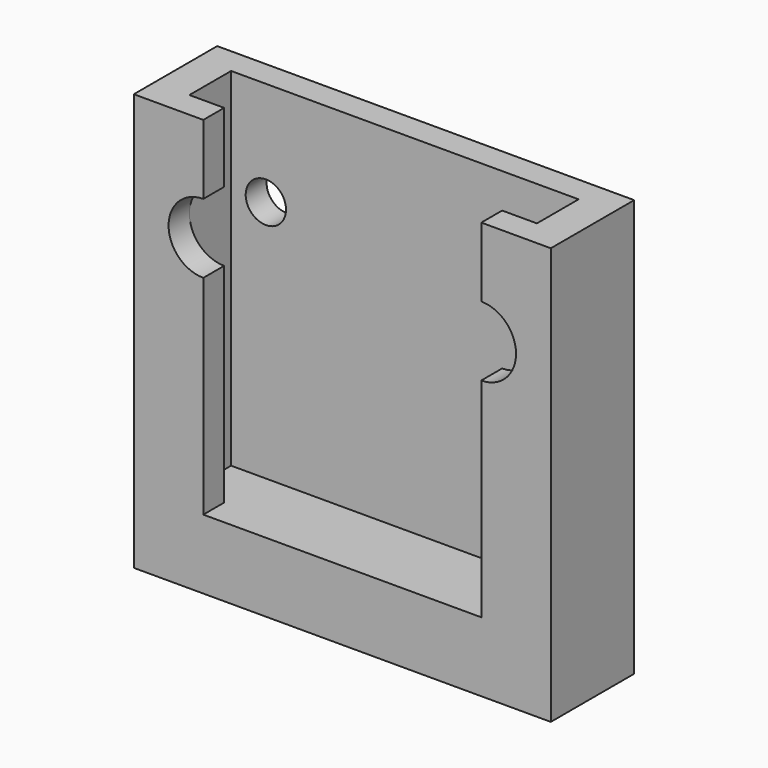
from build123d import *

# Parameters (mm, degrees)
F1_DEPTH = 19.05
F2_W     = 6.35
F2_H     = 4.7625
F2_W_2   = 50.8
F3_DEPTH = 63.5
F5_DEPTH = 10.16
F8_DEPTH = 12.7


with BuildPart() as f1:
    # F0 (on Front) → F1 (new body)
    with BuildSketch(Plane.XZ):
        Polygon((0, -38.1), (0, 0), (0, 38.1), (-38.1, 38.1), (-38.1, 0), (-38.1, -38.1), align=None)
        Polygon((0, 38.1), (0, 0), (0, -38.1), (38.1, -38.1), (38.1, 0), (38.1, 38.1), align=None)
    extrude(amount=F1_DEPTH)

    # F2 (on face) → F3 (cut)
    with BuildSketch(Plane.XY.offset(38.1)):
        Polygon((-25.4, -14.2875), (25.4, -14.2875), (25.4, -9.525), (25.4, -4.7625), (-25.4, -4.7625), (-25.4, -9.525), align=None)
        with Locations((28.575, -11.90625)):
            Rectangle(F2_W, F2_H)
        with Locations((28.575, -7.14375)):
            Rectangle(F2_W, F2_H)
        with Locations((-28.575, -11.90625)):
            Rectangle(F2_W, F2_H)
        with Locations((-28.575, -7.14375)):
            Rectangle(F2_W, F2_H)
        with Locations((0, -16.66875)):
            Rectangle(F2_W_2, F2_H)
    extrude(amount=-F3_DEPTH, mode=Mode.SUBTRACT)

    # F4 (on face) → F5 (cut)
    with BuildSketch(Plane(origin=(0, 0, 0), x_dir=(-1, 0, 0), z_dir=(0, 1, 0))):
        with BuildLine():
            ThreePointArc((-29.083, 19.05), (-25.4, 15.367), (-21.717, 19.05))
            Line((-21.717, 19.05), (-25.4, 19.05))
            Line((-25.4, 19.05), (-29.083, 19.05))
        make_face()
        with BuildLine():
            Line((-25.4, 19.05), (-21.717, 19.05))
            ThreePointArc((-21.717, 19.05), (-25.4, 22.733), (-29.083, 19.05))
            Line((-29.083, 19.05), (-25.4, 19.05))
        make_face()
        with BuildLine():
            ThreePointArc((29.083, 19.05), (25.4, 22.733), (21.717, 19.05))
            Line((21.717, 19.05), (25.4, 19.05))
            Line((25.4, 19.05), (29.083, 19.05))
        make_face()
        with BuildLine():
            Line((25.4, 19.05), (21.717, 19.05))
            ThreePointArc((21.717, 19.05), (25.4, 15.367), (29.083, 19.05))
            Line((29.083, 19.05), (25.4, 19.05))
        make_face()
    extrude(amount=-F5_DEPTH, mode=Mode.SUBTRACT)

    # F7 (on face) → F8 (cut)
    with BuildSketch(Plane.XZ.offset(19.05)):
        with BuildLine():
            ThreePointArc((-25.4, 25.3892062068), (-29.8901280605, 14.5490781463), (-19.05, 19.0392062068))
            ThreePointArc((-19.05, 19.0392062068), (-20.9098719395, 23.5293342673), (-25.4, 25.3892062068))
        make_face()
        with BuildLine():
            ThreePointArc((25.4, 25.4), (20.9098719395, 14.5598719395), (31.75, 19.05))
            ThreePointArc((31.75, 19.05), (29.8901280605, 23.5401280605), (25.4, 25.4))
        make_face()
    extrude(amount=-F8_DEPTH, mode=Mode.SUBTRACT)


solid = f1.part
